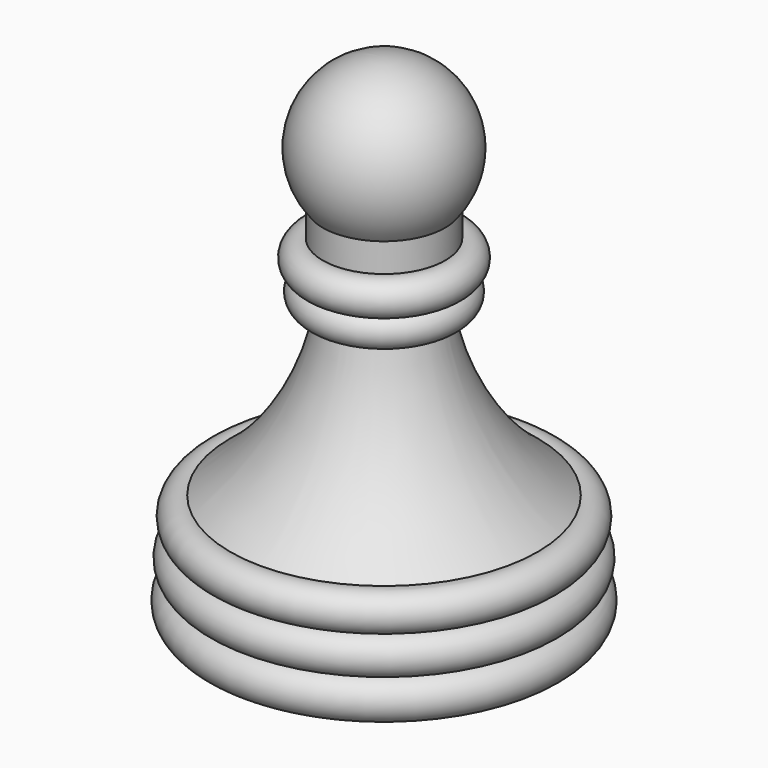
from build123d import *


with BuildPart() as f1:
    # F0 (on Front) → F1 (revolve)
    with BuildSketch(Plane.XZ):
        with BuildLine():
            Line((0, -38.0692742765), (0, 12.7307257235))
            Line((0, 12.7307257235), (0, 23.5513299704))
            ThreePointArc((0, 23.5513299704), (-8.903513506, 17.900883646), (-7.5815928479, 7.438922922))
            Line((-7.5815928479, 7.438922922), (-7.5815928479, 3.8714515977))
            ThreePointArc((-7.5815928479, 3.8714515977), (-10.1579546241, 2.3945986595), (-8.8701204374, -0.2812596534))
            ThreePointArc((-8.8701204374, -0.2812596534), (-9.3927925899, -2.9926633892), (-6.7750401795, -3.8714515977))
            ThreePointArc((-6.7750401795, -3.8714515977), (-10.9339882619, -15.2289085724), (-19.05, -24.1965744644))
            ThreePointArc((-19.05, -24.1965744644), (-21.8866622661, -25.7244630407), (-20.5089222959, -28.6370098452))
            ThreePointArc((-20.5089222959, -28.6370098452), (-22.3077873206, -30.8236469574), (-20.7901344441, -33.2140500582))
            ThreePointArc((-20.7901344441, -33.2140500582), (-22.3699738617, -36.5197198505), (-19.05, -38.0692742765))
            Line((-19.05, -38.0692742765), (0, -38.0692742765))
        make_face()
        with BuildLine():
            ThreePointArc((-19.05, -33.229958266), (-19.921551335, -33.3843452645), (-20.7901344441, -33.2140500582))
            ThreePointArc((-20.7901344441, -33.2140500582), (-19.9186848796, -33.0707953152), (-19.05, -33.229958266))
        make_face(mode=Mode.SUBTRACT)
        with BuildLine():
            ThreePointArc((-19.05, -28.7132654339), (-19.7855641833, -28.7919009416), (-20.5089222959, -28.6370098452))
            ThreePointArc((-20.5089222959, -28.6370098452), (-19.7735511117, -28.5620667963), (-19.05, -28.7132654339))
        make_face(mode=Mode.SUBTRACT)
        with BuildLine():
            ThreePointArc((-6.7750401795, 0), (-7.7862022289, -0.4116071791), (-8.8701204374, -0.2812596534))
            ThreePointArc((-8.8701204374, -0.2812596534), (-7.8606120306, 0.1426653749), (-6.7750401795, 0))
        make_face(mode=Mode.SUBTRACT)
        with BuildLine():
            ThreePointArc((-6.7750401795, 0), (-7.8606120306, 0.1426653749), (-8.8701204374, -0.2812596534))
            ThreePointArc((-8.8701204374, -0.2812596534), (-7.7862022289, -0.4116071791), (-6.7750401795, 0))
        make_face()
        with BuildLine():
            ThreePointArc((-19.05, -33.229958266), (-19.9186848796, -33.0707953152), (-20.7901344441, -33.2140500582))
            ThreePointArc((-20.7901344441, -33.2140500582), (-19.921551335, -33.3843452645), (-19.05, -33.229958266))
        make_face()
        with BuildLine():
            ThreePointArc((-19.05, -28.7132654339), (-19.7735511117, -28.5620667963), (-20.5089222959, -28.6370098452))
            ThreePointArc((-20.5089222959, -28.6370098452), (-19.7855641833, -28.7919009416), (-19.05, -28.7132654339))
        make_face()
    revolve(axis=Axis((0, 0, -12.6692742765), (0, 0, -1)))


with BuildPart() as f2:
    # F0 (on Front) → F2 (revolve)
    with BuildSketch(Plane.XZ):
        with BuildLine():
            Line((0, -38.0692742765), (0, 12.7307257235))
            Line((0, 12.7307257235), (0, 23.5513299704))
            ThreePointArc((0, 23.5513299704), (-8.903513506, 17.900883646), (-7.5815928479, 7.438922922))
            Line((-7.5815928479, 7.438922922), (-7.5815928479, 3.8714515977))
            ThreePointArc((-7.5815928479, 3.8714515977), (-10.1579546241, 2.3945986595), (-8.8701204374, -0.2812596534))
            ThreePointArc((-8.8701204374, -0.2812596534), (-9.3927925899, -2.9926633892), (-6.7750401795, -3.8714515977))
            ThreePointArc((-6.7750401795, -3.8714515977), (-10.9339882619, -15.2289085724), (-19.05, -24.1965744644))
            ThreePointArc((-19.05, -24.1965744644), (-21.8866622661, -25.7244630407), (-20.5089222959, -28.6370098452))
            ThreePointArc((-20.5089222959, -28.6370098452), (-22.3077873206, -30.8236469574), (-20.7901344441, -33.2140500582))
            ThreePointArc((-20.7901344441, -33.2140500582), (-22.3699738617, -36.5197198505), (-19.05, -38.0692742765))
            Line((-19.05, -38.0692742765), (0, -38.0692742765))
        make_face()
        with BuildLine():
            ThreePointArc((-19.05, -33.229958266), (-19.921551335, -33.3843452645), (-20.7901344441, -33.2140500582))
            ThreePointArc((-20.7901344441, -33.2140500582), (-19.9186848796, -33.0707953152), (-19.05, -33.229958266))
        make_face(mode=Mode.SUBTRACT)
        with BuildLine():
            ThreePointArc((-19.05, -28.7132654339), (-19.7855641833, -28.7919009416), (-20.5089222959, -28.6370098452))
            ThreePointArc((-20.5089222959, -28.6370098452), (-19.7735511117, -28.5620667963), (-19.05, -28.7132654339))
        make_face(mode=Mode.SUBTRACT)
        with BuildLine():
            ThreePointArc((-6.7750401795, 0), (-7.7862022289, -0.4116071791), (-8.8701204374, -0.2812596534))
            ThreePointArc((-8.8701204374, -0.2812596534), (-7.8606120306, 0.1426653749), (-6.7750401795, 0))
        make_face(mode=Mode.SUBTRACT)
        with BuildLine():
            ThreePointArc((-6.7750401795, 0), (-7.8606120306, 0.1426653749), (-8.8701204374, -0.2812596534))
            ThreePointArc((-8.8701204374, -0.2812596534), (-7.7862022289, -0.4116071791), (-6.7750401795, 0))
        make_face()
        with BuildLine():
            ThreePointArc((-19.05, -33.229958266), (-19.9186848796, -33.0707953152), (-20.7901344441, -33.2140500582))
            ThreePointArc((-20.7901344441, -33.2140500582), (-19.921551335, -33.3843452645), (-19.05, -33.229958266))
        make_face()
        with BuildLine():
            ThreePointArc((-19.05, -28.7132654339), (-19.7735511117, -28.5620667963), (-20.5089222959, -28.6370098452))
            ThreePointArc((-20.5089222959, -28.6370098452), (-19.7855641833, -28.7919009416), (-19.05, -28.7132654339))
        make_face()
    revolve(axis=Axis((0, 0, -12.6692742765), (0, 0, -1)))


solid = Compound([f1.part, f2.part])
